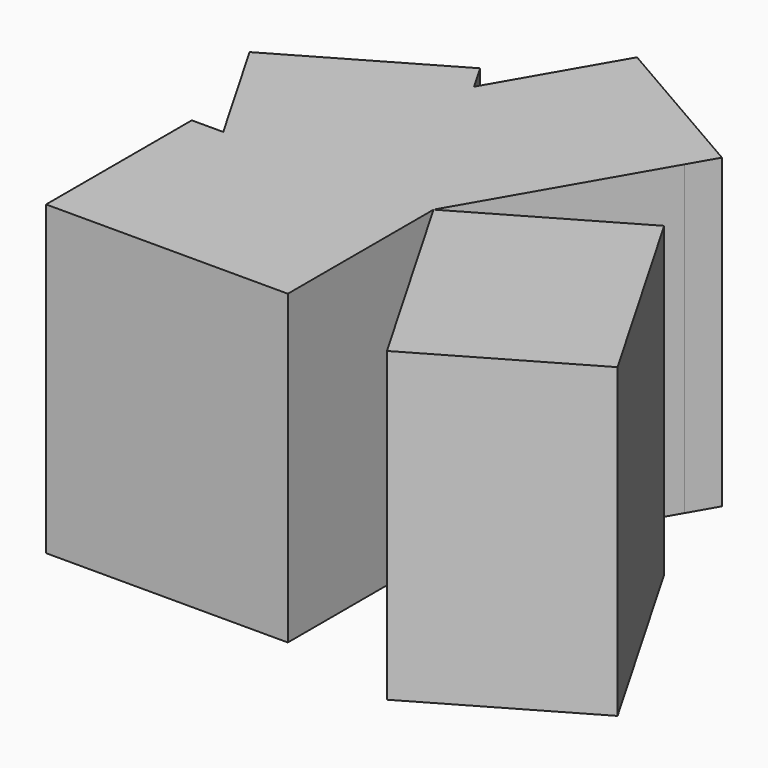
from build123d import *

# Parameters (mm, degrees)
F1_DEPTH = 25.4


with BuildPart() as f1:
    # F0 (on Top) → F1 (new body)
    with BuildSketch(Plane.XY):
        Polygon((0, 0), (0, 15.0686036795), (8.6998623907, 15.0686036795), (10, 17.3205080757), (-3.049793586, 24.8548099155), (-8.6998623907, 15.0686036795), align=None)
        Polygon((8.6998623907, 15.0686036795), (0, 15.0686036795), (0, 0), align=None)
        Polygon((-17.3997247814, 0), (0, 0), (-13.049793586, 7.5343018398), (-8.6998623907, 15.0686036795), (-10, 17.3205080757), (-23.049793586, 9.7862062359), align=None)
        Polygon((-8.6998623907, -15.0686036795), (0, 0), (-13.049793586, -7.5343018398), (-17.3997247814, 0), (-20, 0), (-20, -15.0686036795), align=None)
        Polygon((-13.049793586, 7.5343018398), (0, 0), (-8.6998623907, 15.0686036795), align=None)
        Polygon((-13.049793586, -7.5343018398), (0, 0), (-17.3997247814, 0), align=None)
        Polygon((0, -15.0686036795), (0, 0), (-8.6998623907, -15.0686036795), align=None)
    extrude(amount=F1_DEPTH)


with BuildPart() as f1b:
    # F0 (on Top) → F1, piece 2 (new body)
    with BuildSketch(Plane.XY):
        Polygon((13.049793586, 7.5343018398), (0, 0), (10, -17.3205080757), (23.049793586, -9.7862062359), align=None)
    extrude(amount=F1_DEPTH)


solid = Compound([f1.part, f1b.part])
